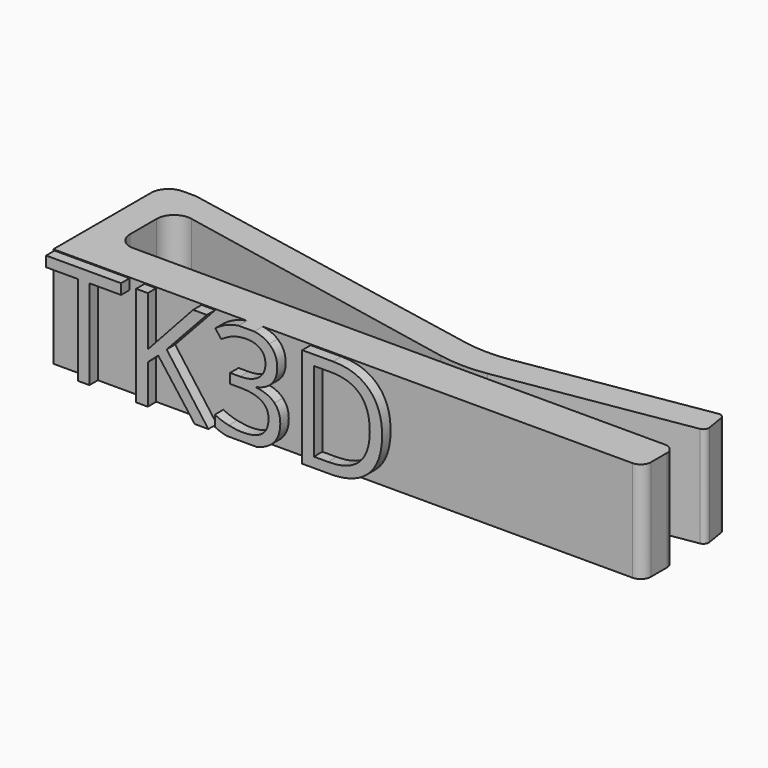
from build123d import *

# Parameters (mm, degrees)
F1_DEPTH = 4.826
F2_R     = 0.8421318362
F3_R     = 0.8368220374
F4_R     = 0.4905681959
F5_R     = 0.7971733183
F7_DEPTH = 0.508
F8_R     = 0.4905681959


with BuildPart() as f1:
    # F0 (on Top) → F1 (new body)
    with BuildSketch(Plane.XY):
        Polygon((3.7636798806, 1.93111517), (3.7636798806, 0), (31.9592878222, 0), (31.9592878222, 1.93111517), (5.2430788055, 1.93111517), align=None)
        with BuildLine():
            Line((3.7636798806, 6.3693127595), (3.7636798806, 1.93111517))
            Line((3.7636798806, 1.93111517), (5.2430788055, 1.93111517))
            Line((5.2430788055, 1.93111517), (5.2430788055, 5.3456245812))
            Line((5.2430788055, 5.3456245812), (20.4440524117, 2.3154419081))
            ThreePointArc((20.4440524117, 2.3154419081), (21.572559685, 2.1939202222), (22.7046736444, 2.2752477642))
            Line((22.7046736444, 2.2752477642), (31.7002432299, 3.7380780613))
            ThreePointArc((31.7002432299, 3.7380780613), (31.8710772939, 3.8437373318), (31.9171628323, 4.0392476436))
            Line((31.9171628323, 4.0392476436), (31.7757464521, 4.9088774915))
            ThreePointArc((31.7757464521, 4.9088774915), (31.6700871816, 5.0797115555), (31.4745768698, 5.1257970939))
            Line((31.4745768698, 5.1257970939), (22.6872542576, 3.696831243))
            ThreePointArc((22.6872542576, 3.696831243), (21.5722351198, 3.6152227731), (20.4601853424, 3.7304309004))
            Line((20.4601853424, 3.7304309004), (5.2430788055, 6.6787209362))
            Line((5.2430788055, 6.6787209362), (3.7601878867, 6.6787209362))
            Line((3.7601878867, 6.6787209362), (3.7636798806, 6.3693127595))
        make_face()
    extrude(amount=F1_DEPTH)

    # F2
    f2_edges = [f1.edges().sort_by_distance(p)[0] for p in [
        (3.760188, 6.678721, 2.413),
    ]]
    fillet(f2_edges, radius=F2_R)

    # F3
    f3_edges = [f1.edges().sort_by_distance(p)[0] for p in [
        (5.243079, 5.345625, 2.413),
    ]]
    fillet(f3_edges, radius=F3_R)

    # F4
    f4_edges = [f1.edges().sort_by_distance(p)[0] for p in [
        (31.959288, 1.931115, 2.413),
    ]]
    fillet(f4_edges, radius=F4_R)

    # F5
    f5_edges = [f1.edges().sort_by_distance(p)[0] for p in [
        (5.243079, 1.931115, 2.413),
    ]]
    fillet(f5_edges, radius=F5_R)

    # F6 (on face) → F7 (join)
    with BuildSketch(Plane.XZ):
        Polygon((5.3377853494, 0), (5.8939064431, 0), (5.8939064431, 4.2908250868), (7.4093626063, 4.2908250868), (7.4093626063, 4.7851549479), (3.8223291862, 4.7851549479), (3.8223291862, 4.2908250868), (5.3377853494, 4.2908250868), align=None)
        Polygon((8.1299112175, 4.7851549479), (8.1299112175, 0), (8.6860323112, 0), (8.6860323112, 1.8757304688), (9.1876933355, 2.3208368056), (10.9314628668, 0), (11.5860310091, 0), (9.5898600022, 2.7062465278), (11.5137666862, 4.7851549479), (10.8560566168, 4.7851549479), (8.6860323112, 2.411952691), (8.6860323112, 4.7851549479), align=None)
        with BuildLine():
            Line((13.789949635, 4.826), (13.0315141767, 4.826))
            add(Edge.make_bspline(
                [(12.598778839, 4.7207454427), (12.8088874261, 4.7931670674), (13.0315141767, 4.826)],
                knots=[0, 0, 0, 0.5466418669, 0.5466418669, 0.5466418669], degree=2))
            add(Edge.make_bspline(
                [(11.920122589, 4.3557582465), (12.2144164258, 4.5882608507), (12.598778839, 4.7207454427)],
                knots=[0, 0, 0, 1, 1, 1], degree=2))
            Line((11.920122589, 4.3557582465), (12.1945175543, 3.9892000868))
            add(Edge.make_bspline(
                [(12.8297104796, 4.3039164497), (12.5516499327, 4.2185607639), (12.1945175543, 3.9892000868)],
                knots=[0, 0, 0, 1, 1, 1], degree=2))
            add(Edge.make_bspline(
                [(13.4219637348, 4.3892721354), (13.1077710265, 4.3892721354), (12.8297104796, 4.3039164497)],
                knots=[0, 0, 0, 1, 1, 1], degree=2))
            add(Edge.make_bspline(
                [(14.0749609136, 4.1892361111), (13.8346034918, 4.3892721354), (13.4219637348, 4.3892721354)],
                knots=[0, 0, 0, 1, 1, 1], degree=2))
            add(Edge.make_bspline(
                [(14.3153183355, 3.6393988715), (14.3153183355, 3.9892000868), (14.0749609136, 4.1892361111)],
                knots=[0, 0, 0, 1, 1, 1], degree=2))
            add(Edge.make_bspline(
                [(13.9880342643, 2.9534114583), (14.3153183355, 3.2005763889), (14.3153183355, 3.6393988715)],
                knots=[0, 0, 0, 1, 1, 1], degree=2))
            add(Edge.make_bspline(
                [(13.1014871723, 2.7062465278), (13.6607501931, 2.7062465278), (13.9880342643, 2.9534114583)],
                knots=[0, 0, 0, 1, 1, 1], degree=2))
            Line((13.1014871723, 2.7062465278), (12.6239142556, 2.7062465278))
            Line((12.6239142556, 2.7062465278), (12.6239142556, 2.2391467014))
            Line((12.6239142556, 2.2391467014), (13.0952033181, 2.2391467014))
            add(Edge.make_bspline(
                [(14.4629889084, 1.3677855903), (14.4629889084, 2.2391467014), (13.0952033181, 2.2391467014)],
                knots=[0, 0, 0, 1, 1, 1], degree=2))
            add(Edge.make_bspline(
                [(13.2229750195, 0.3958828125), (14.4629889084, 0.3958828125), (14.4629889084, 1.3677855903)],
                knots=[0, 0, 0, 1, 1, 1], degree=2))
            add(Edge.make_bspline(
                [(12.5568864779, 0.4760019531), (12.9087823112, 0.3958828125), (13.2229750195, 0.3958828125)],
                knots=[0, 0, 0, 1, 1, 1], degree=2))
            add(Edge.make_bspline(
                [(11.8939398633, 0.7100755208), (12.2049906445, 0.5561210938), (12.5568864779, 0.4760019531)],
                knots=[0, 0, 0, 1, 1, 1], degree=2))
            Line((11.8939398633, 0.7100755208), (11.8939398633, 0.1927048611))
            add(Edge.make_bspline(
                [(12.4635495715, 0), (12.1708045154, 0.0591469127), (11.8939398633, 0.1927048611)],
                knots=[0.0691615274, 0.0691615274, 0.0691615274, 1, 1, 1], degree=2))
            Line((12.4635495715, 0), (13.8707030072, 0))
            add(Edge.make_bspline(
                [(14.5509628668, 0.302672309), (14.277243255, 0.0899806901), (13.8707030072, 0)],
                knots=[0, 0, 0, 0.5769429439, 0.5769429439, 0.5769429439], degree=2))
            add(Edge.make_bspline(
                [(15.0253938563, 1.3552178819), (15.0253938563, 0.6713250868), (14.5509628668, 0.302672309)],
                knots=[0, 0, 0, 1, 1, 1], degree=2))
            add(Edge.make_bspline(
                [(14.7473333095, 2.1276082899), (15.0253938563, 1.8327907986), (15.0253938563, 1.3552178819)],
                knots=[0, 0, 0, 1, 1, 1], degree=2))
            add(Edge.make_bspline(
                [(13.8932527973, 2.4936427951), (14.4692727626, 2.4224257813), (14.7473333095, 2.1276082899)],
                knots=[0, 0, 0, 1, 1, 1], degree=2))
            Line((13.8932527973, 2.4936427951), (13.8932527973, 2.5198255208))
            add(Edge.make_bspline(
                [(14.6216562261, 2.9094244792), (14.3645418598, 2.6182725694), (13.8932527973, 2.5198255208)],
                knots=[0, 0, 0, 1, 1, 1], degree=2))
            add(Edge.make_bspline(
                [(14.8787705925, 3.6592977431), (14.8787705925, 3.2005763889), (14.6216562261, 2.9094244792)],
                knots=[0, 0, 0, 1, 1, 1], degree=2))
            add(Edge.make_bspline(
                [(14.4923135612, 4.5343244358), (14.8787705925, 4.2154188368), (14.8787705925, 3.6592977431)],
                knots=[0, 0, 0, 1, 1, 1], degree=2))
            add(Edge.make_bspline(
                [(13.789949635, 4.826), (14.2187826063, 4.7600430693), (14.4923135612, 4.5343244358)],
                knots=[0.2922086215, 0.2922086215, 0.2922086215, 1, 1, 1], degree=2))
        make_face()
        with BuildLine():
            Line((16.0758448112, 4.7851549479), (16.0758448112, 0))
            Line((16.0758448112, 0), (17.4017380404, 0))
            add(Edge.make_bspline(
                [(19.2523330925, 0.6268144531), (18.6092853494, 0), (17.4017380404, 0)],
                knots=[0, 0, 0, 1, 1, 1], degree=2))
            add(Edge.make_bspline(
                [(19.8953808355, 2.4381354167), (19.8953808355, 1.2536289063), (19.2523330925, 0.6268144531)],
                knots=[0, 0, 0, 1, 1, 1], degree=2))
            add(Edge.make_bspline(
                [(19.2769448546, 4.166718967), (19.8953808355, 3.5482829861), (19.8953808355, 2.4381354167)],
                knots=[0, 0, 0, 1, 1, 1], degree=2))
            add(Edge.make_bspline(
                [(17.5420774501, 4.7851549479), (18.6585088737, 4.7851549479), (19.2769448546, 4.166718967)],
                knots=[0, 0, 0, 1, 1, 1], degree=2))
            Line((17.5420774501, 4.7851549479), (16.0758448112, 4.7851549479))
        make_face()
        with BuildLine():
            add(Edge.make_bspline(
                [(19.3067931619, 2.4182365451), (19.3067931619, 3.354530816), (18.8370750629, 3.8289618056)],
                knots=[0, 0, 0, 1, 1, 1], degree=2))
            add(Edge.make_bspline(
                [(18.8056557921, 0.9703318142), (19.3067931619, 1.4599487847), (19.3067931619, 2.4182365451)],
                knots=[0, 0, 0, 1, 1, 1], degree=2))
            add(Edge.make_bspline(
                [(17.3095748459, 0.4807148438), (18.3045184223, 0.4807148438), (18.8056557921, 0.9703318142)],
                knots=[0, 0, 0, 1, 1, 1], degree=2))
            Line((17.3095748459, 0.4807148438), (16.631965905, 0.4807148438))
            Line((16.631965905, 0.4807148437), (16.631965905, 4.3033927951))
            Line((16.631965905, 4.3033927951), (17.4404884744, 4.3033927951))
            add(Edge.make_bspline(
                [(18.8370750629, 3.8289618056), (18.367356964, 4.3033927951), (17.4404884744, 4.3033927951)],
                knots=[0, 0, 0, 1, 1, 1], degree=2))
        make_face(mode=Mode.SUBTRACT)
    extrude(amount=F7_DEPTH)

    # F8
    f8_edges = [f1.edges().sort_by_distance(p)[0] for p in [
        (31.959288, 0, 2.413),
    ]]
    fillet(f8_edges, radius=F8_R)


solid = f1.part
